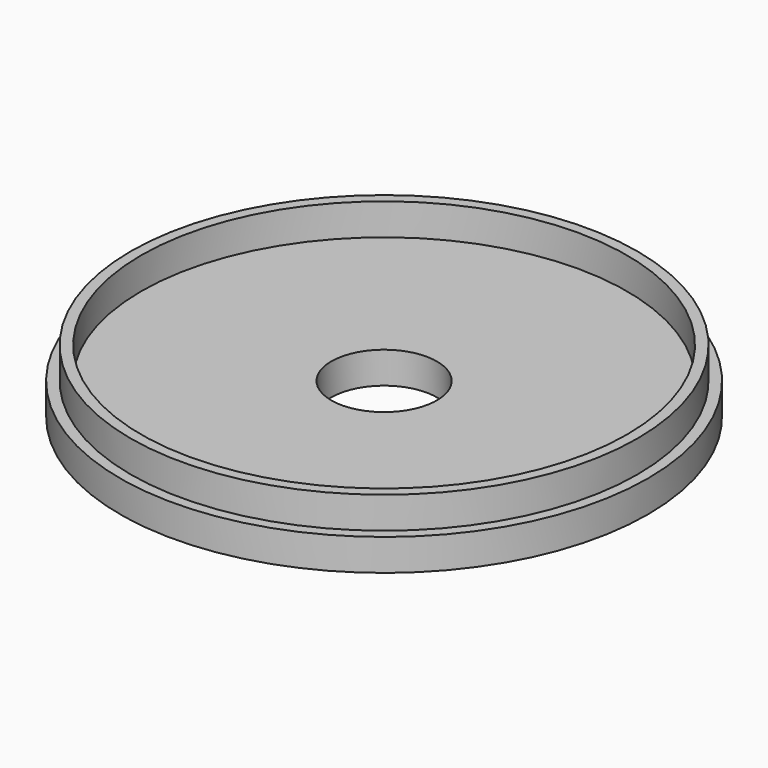
from build123d import *

# Parameters (mm, degrees)
F0_R     = 25
F1_DEPTH = 3
F2_R     = 24
F2_R_2   = 23
F3_DEPTH = 3
F4_D     = 10


with BuildPart() as f1:
    # F0 (on Top) → F1 (new body)
    with BuildSketch(Plane.XY):
        Circle(F0_R)
    extrude(amount=F1_DEPTH)

    # F2 (on face) → F3 (join)
    with BuildSketch(Plane.XY.offset(3)):
        Circle(F2_R)
        Circle(F2_R_2, mode=Mode.SUBTRACT)
    extrude(amount=F3_DEPTH)

    # F4 (through all)
    with Locations(Plane(origin=(0, 0, 0), x_dir=(1, 0, 0), z_dir=(0, 0, -1))):
        with Locations((0, 0)):
            Hole(F4_D / 2)


solid = f1.part
